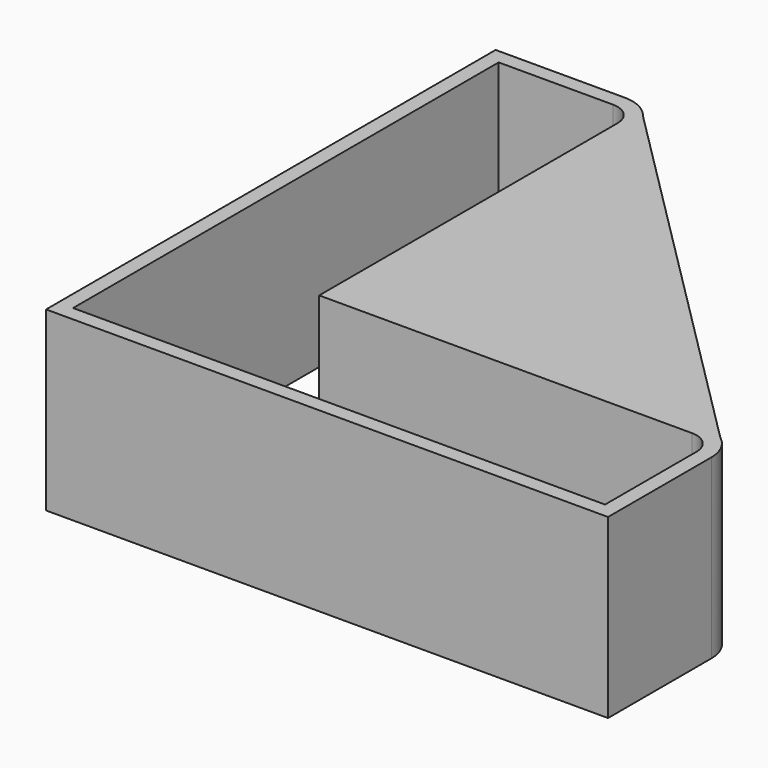
from build123d import *

# Parameters (mm, degrees)
PAD074_DEPTH            = 18.9
PAD078_DEPTH            = 7.8
FILLET020_R             = 2
BODY067_ROLL_ANGLE      = 180
BODY067_PLACEMENT_ANGLE = 90


with BuildPart() as part:
    # Sketch124 → Pad074 (new body)
    with BuildSketch(Plane.XY):
        with BuildLine():
            Line((-30, 30), (-30, -30))
            Line((-30, -30), (30, -30))
            Line((30, -30), (30, -16.2))
            ThreePointArc((30, -16.2), (28.828427, -13.371573), (26, -12.2))
            Line((26, -12.2), (-12.2, -12.2))
            Line((-12.2, -12.2), (-12.2, 26))
            ThreePointArc((-12.2, 26), (-13.371573, 28.828427), (-16.2, 30))
            Line((-16.2, 30), (-30, 30))
        make_face()
        with BuildLine():
            Line((-28.4, 28.4), (-16.2, 28.4))
            ThreePointArc((-13.8, 26), (-14.502944, 27.697056), (-16.2, 28.4))
            Line((-13.8, 26), (-13.8, -13.8))
            Line((-13.8, -13.8), (26, -13.8))
            ThreePointArc((28.4, -16.2), (27.697056, -14.502944), (26, -13.8))
            Line((28.4, -16.2), (28.4, -28.4))
            Line((28.4, -28.4), (-28.4, -28.4))
            Line((-28.4, -28.4), (-28.4, 28.4))
        make_face(mode=Mode.SUBTRACT)
    extrude(amount=PAD074_DEPTH)

    # Sketch128 → Pad078 (join)
    with BuildSketch(Plane.XY):
        Polygon((-13.8, 29.2), (-13.8, -13.8), (29.2, -13.8), align=None)
    extrude(amount=PAD078_DEPTH)

    # Fillet020
    fillet020_edges = [part.edges().sort_by_distance(p)[0] for p in [
        (7.7, 7.7, 7.8),
    ]]
    fillet(fillet020_edges, radius=FILLET020_R)


with BuildPart() as part_1:
    # Body067 roll: moved
    add(part.part.rotate(Axis((0, 0, 0), (1, 0, 0)), BODY067_ROLL_ANGLE))


with BuildPart() as part_2:
    # Body067 placement: moved
    add(part_1.part.moved(Location((-115.5, -115.5, 78.1))).rotate(Axis((-115.5, -115.5, 78.1), (0, 0, 1)), BODY067_PLACEMENT_ANGLE))


solid = part_2.part
